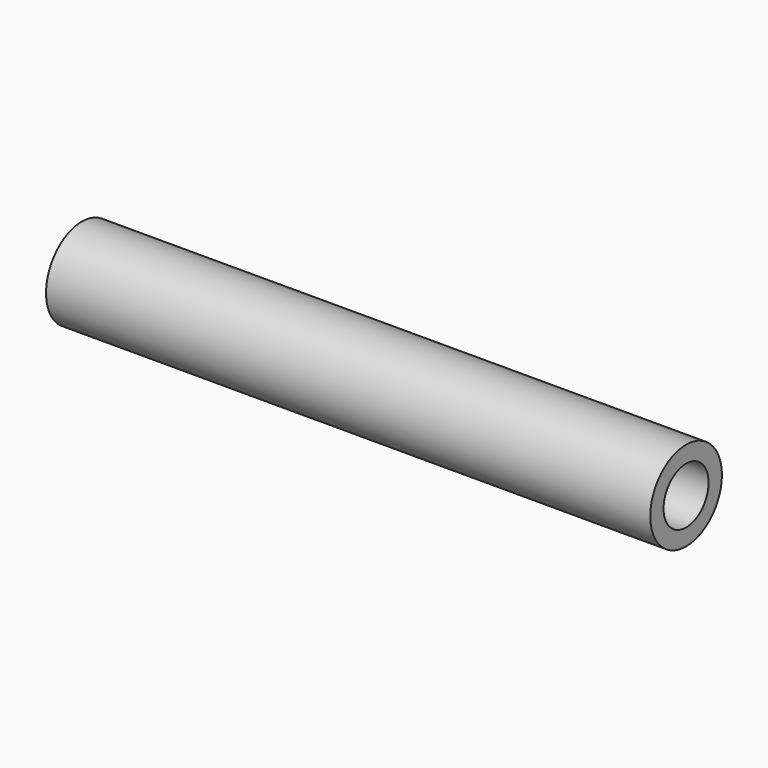
from build123d import *

# Parameters (mm, degrees)
F0_R     = 1.5875
F1_DEPTH = 21.4122
F3_D     = 1.9939
F3_DEPTH = 19.05
F3_TIP   = 0.5990279941


with BuildPart() as f1:
    # F0 (on Right) → F1 (new body)
    with BuildSketch(Plane.YZ):
        Circle(F0_R)
    extrude(amount=-F1_DEPTH)

    # F3
    with Locations(Plane.YZ):
        with Locations((0, 0)):
            Hole(F3_D / 2, depth=F3_DEPTH)
            with Locations((0, 0, -(F3_DEPTH + F3_TIP / 2))):  # 118° drill point
                Cone(0, F3_D / 2, F3_TIP, mode=Mode.SUBTRACT)


solid = f1.part
